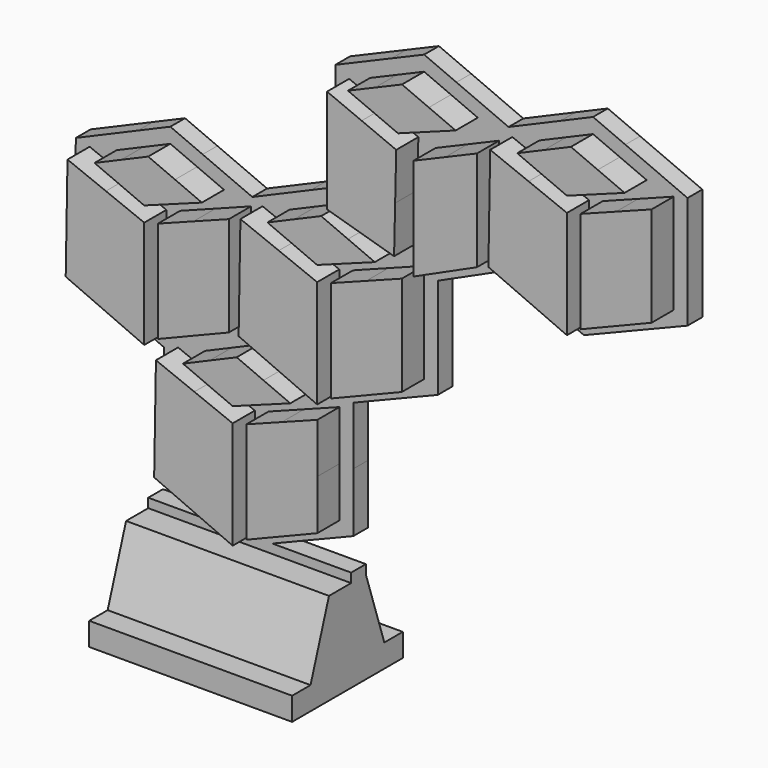
from build123d import *

# Parameters (mm, degrees)
F1_DEPTH = 2
F2_DEPTH = 5
F4_W     = 2
F4_H     = 1
F5_DEPTH = 22


with BuildPart() as f1:
    # F0 (on Front) → F1 (new body)
    with BuildSketch(Plane.XZ):
        Polygon((-22.8193829709, 10.7987906608), (-26.3214184969, 9.2943193939), (-33.0635225035, 6.3979188469), (-33.1667772891, 0.4421184837), (-33.2815796016, -6.1797498292), (-28.111171211, -8.4566636175), (-23.4882349946, -10.4924856545), (-23.576764671, -15.5989339328), (-23.6915669833, -22.2208046351), (-18.5211586583, -24.4977190145), (-14.2161642228, -26.3935276804), (-7.7627450397, -23.7728551555), (-2.9792199079, -21.830310819), (-2.979219302, -15.4102409141), (-2.9792175135, -9.0926908267), (1.3976566547, -7.3151656746), (6.1808944535, -5.3726091448), (6.1808944535, 1.0474357953), (6.1808944535, 5.5275451011), (10.008536122, 7.2674072367), (13.9272954869, 9.0486868379), (17.7231572961, 7.3773146502), (22.0282949256, 5.4817010426), (28.4814909788, 8.1022016787), (33.2645212787, 10.044483934), (33.2645212787, 16.4645665519), (33.2645212787, 22.2306876446), (26.5167738651, 25.1284134), (23.014342638, 26.63248509), (19.512434205, 25.1283758979), (13.8577213205, 22.699612899), (8.2024685224, 25.1283947272), (4.7022580218, 26.6316427627), (1.1820396136, 25.1298135252), (-4.9248938926, 22.5244151584), (-4.9248938926, 16.054836693), (-4.9248938926, 10.8478453638), (-7.5715055242, 9.7109633563), (-13.9292377049, 6.9799285921), (-19.3170835016, 9.2943382492), align=None)
        Polygon((-22.0769900447, -15.6249352854), (-21.9794714209, -9.9999987746), (-17.8191017683, -11.660116002), (-13.6587326263, -13.320230166), (-13.6587326263, -19.160115083), (-13.6587326263, -25), (-17.9166203921, -23.1249358981), (-22.1745086685, -21.2498717962), align=None, mode=Mode.SUBTRACT)
        Polygon((-8.3271193717, -11.4650751804), (-4.4792177703, -9.9999987746), (-4.479219302, -15.4102406319), (-4.4792198126, -20.8204819785), (-8.3271203929, -22.3830780292), (-12.1750209731, -23.94567408), (-12.1750209731, -18.4379130884), (-12.1750209731, -12.9301520968), align=None, mode=Mode.SUBTRACT)
        Polygon((-31.6670026549, 0.4161175841), (-31.5694840311, 6.0410525631), (-27.4091143785, 4.3809389097), (-23.2487452365, 2.7208247457), (-23.2487452365, -3.1190596607), (-23.2487452365, -8.9589445777), (-27.5066330024, -7.0838804758), (-31.7645212787, -5.2088168845), align=None, mode=Mode.SUBTRACT)
        Polygon((-17.9171309608, 4.5762309311), (-14.0697404387, 6.0410525631), (-14.0697404387, 0.6310695643), (-14.0697404387, -4.778916498), (-17.9171309608, -6.3412572644), (-21.7645209724, -7.9035985414), (-21.7645209724, -2.3960943658), (-21.7645209724, 3.1114098097), align=None, mode=Mode.SUBTRACT)
        Polygon((-16.1395859933, -8.1251879148), (-13.2293443403, -6.8753167313), (-10.3191016662, -8.1251879148), (-7.4088605238, -9.3750596089), (-10.5337963198, -10.5274126792), (-13.6587326263, -11.67976626), (-16.3542801363, -10.5274126792), (-19.0498276463, -9.3750596089), align=None, mode=Mode.SUBTRACT)
        Polygon((-12.9166225365, 0.8324878996), (-12.8188486283, 6.4576776525), (-8.6587347707, 4.7975634885), (-4.4986204025, 3.1374498351), (-4.4986204025, -2.7026898557), (-4.4986204025, -8.542830057), (-8.7565081683, -6.6677659551), (-13.0143964447, -4.7927018532), align=None, mode=Mode.SUBTRACT)
        Polygon((0.8332491576, 4.9928560205), (4.6808944535, 6.4576776525), (4.6808944535, 1.0474357953), (4.6808944535, -4.3628055514), (0.8332491576, -5.9254016021), (-3.0143961383, -7.4879976529), (-3.0143961383, -1.9799813769), (-3.0143961383, 3.528034899), align=None, mode=Mode.SUBTRACT)
        Polygon((-25.7293433192, 7.9161151333), (-22.8193569506, 9.1662426223), (-19.909114787, 7.9161151333), (-16.998873134, 6.6659881549), (-20.12380893, 5.513634574), (-23.2487452365, 4.3612809932), (-25.9440374622, 5.513634574), (-28.6393296878, 6.6659881549), align=None, mode=Mode.SUBTRACT)
        Polygon((-6.9794742801, 8.3327402227), (-4.0692321165, 9.5828677117), (-1.1592488113, 8.3327402227), (1.7507375573, 7.0826132442), (-1.3741972175, 5.9302596634), (-4.4991325029, 4.7779060826), (-7.194424218, 5.9302596634), (-9.8897164436, 7.0826132442), align=None, mode=Mode.SUBTRACT)
        Polygon((-3.4248938926, 16.054836693), (-3.4248938926, 21.679771672), (0.3252343112, 20.1174319268), (4.0753614939, 18.555091671), (3.9581859747, 13.4376614801), (3.8410109661, 8.3202312893), (0.2080582815, 9.3750662463), (-3.4248938926, 10.4299012033), align=None, mode=Mode.SUBTRACT)
        Polygon((9.3878243372, 19.5900134271), (12.8254844899, 21.0548350591), (12.8254844899, 15.6251915909), (12.8254844899, 10.1955486332), (9.3878243372, 8.6329536036), (5.9501646952, 7.070358574), (5.9501646952, 12.5977754399), (5.9501646952, 18.1251923057), align=None, mode=Mode.SUBTRACT)
        Polygon((1.7706543322, 23.7501277953), (4.7002970856, 25), (7.6105392492, 23.7501277953), (10.5207814128, 22.5002555907), (7.3958461273, 21.3476472361), (4.2709108419, 20.1950383709), (1.5559612103, 21.3476472361), (-1.1589884212, 22.5002555907), align=None, mode=Mode.SUBTRACT)
        Polygon((14.1672580414, 16.2498729194), (14.2647776863, 21.8748089197), (18.4251463178, 20.2149474872), (22.5855144386, 18.5550886076), (22.5855144386, 12.7152042011), (22.5855144386, 6.8753192841), (18.3276266728, 8.7501281017), (14.069738907, 10.6249369192), align=None, mode=Mode.SUBTRACT)
        Polygon((27.9171307566, 20.4099867771), (31.7645212787, 21.8748089197), (31.7645212787, 16.4645665519), (31.7645212787, 11.0543246947), (27.9171307566, 9.4919849494), (24.0697407451, 7.9296446936), (24.0697407451, 13.4374051746), (24.0697407451, 18.9451651451), align=None, mode=Mode.SUBTRACT)
        Polygon((20.104407319, 23.7501277953), (23.0143941982, 25), (25.9248880721, 23.7501277953), (28.8353850094, 22.5002555907), (25.710449724, 21.3476472361), (22.5855144386, 20.1950383709), (19.8899674392, 21.3476472361), (17.1944204398, 22.5002555907), align=None, mode=Mode.SUBTRACT)
        Polygon((18.4251463178, 20.2149474872), (14.2647776863, 21.8748089197), (14.1672580414, 16.2498729194), (14.069738907, 10.6249369192), (18.3276266728, 8.7501281017), (22.5855144386, 6.8753192841), (22.5855144386, 12.7152042011), (22.5855144386, 18.5550886076), align=None)
        Polygon((31.7645212787, 16.4645665519), (31.7645212787, 21.8748089197), (27.9171307566, 20.4099867771), (24.0697407451, 18.9451651451), (24.0697407451, 13.4374051746), (24.0697407451, 7.9296446936), (27.9171307566, 9.4919849494), (31.7645212787, 11.0543246947), align=None)
        Polygon((-10.3191016662, -8.1251879148), (-13.2293443403, -6.8753167313), (-16.1395859933, -8.1251879148), (-19.0498276463, -9.3750596089), (-16.3542801363, -10.5274126792), (-13.6587326263, -11.67976626), (-10.5337963198, -10.5274126792), (-7.4088605238, -9.3750596089), align=None)
        Polygon((-17.8191017683, -11.660116002), (-21.9794714209, -9.9999987746), (-22.0769900447, -15.6249352854), (-22.1745086685, -21.2498717962), (-17.9166203921, -23.1249358981), (-13.6587326263, -25), (-13.6587326263, -19.160115083), (-13.6587326263, -13.320230166), align=None)
        Polygon((-4.479219302, -15.4102406319), (-4.4792177703, -9.9999987746), (-8.3271193717, -11.4650751804), (-12.1750209731, -12.9301520968), (-12.1750209731, -18.4379130884), (-12.1750209731, -23.94567408), (-8.3271203929, -22.3830780292), (-4.4792198126, -20.8204819785), align=None)
        Polygon((7.6105392492, 23.7501277953), (4.7002970856, 25), (1.7706543322, 23.7501277953), (-1.1589884212, 22.5002555907), (1.5559612103, 21.3476472361), (4.2709108419, 20.1950383709), (7.3958461273, 21.3476472361), (10.5207814128, 22.5002555907), align=None)
        Polygon((0.3252343112, 20.1174319268), (-3.4248938926, 21.679771672), (-3.4248938926, 16.054836693), (-3.4248938926, 10.4299012033), (0.2080582815, 9.3750662463), (3.8410109661, 8.3202312893), (3.9581859747, 13.4376614801), (4.0753614939, 18.555091671), align=None)
        Polygon((12.8254844899, 15.6251915909), (12.8254844899, 21.0548350591), (9.3878243372, 19.5900134271), (5.9501646952, 18.1251923057), (5.9501646952, 12.5977754399), (5.9501646952, 7.070358574), (9.3878243372, 8.6329536036), (12.8254844899, 10.1955486332), align=None)
        Polygon((-19.909114787, 7.9161151333), (-22.8193569506, 9.1662426223), (-25.7293433192, 7.9161151333), (-28.6393296878, 6.6659881549), (-25.9440374622, 5.513634574), (-23.2487452365, 4.3612809932), (-20.12380893, 5.513634574), (-16.998873134, 6.6659881549), align=None)
        Polygon((-27.4091143785, 4.3809389097), (-31.5694840311, 6.0410525631), (-31.6670026549, 0.4161175841), (-31.7645212787, -5.2088168845), (-27.5066330024, -7.0838804758), (-23.2487452365, -8.9589445777), (-23.2487452365, -3.1190596607), (-23.2487452365, 2.7208247457), align=None)
        Polygon((-14.0697404387, 0.6310695643), (-14.0697404387, 6.0410525631), (-17.9171309608, 4.5762309311), (-21.7645209724, 3.1114098097), (-21.7645209724, -2.3960943658), (-21.7645209724, -7.9035985414), (-17.9171309608, -6.3412572644), (-14.0697404387, -4.778916498), align=None)
        Polygon((-1.1592488113, 8.3327402227), (-4.0692321165, 9.5828677117), (-6.9794742801, 8.3327402227), (-9.8897164436, 7.0826132442), (-7.194424218, 5.9302596634), (-4.4991325029, 4.7779060826), (-1.3741972175, 5.9302596634), (1.7507375573, 7.0826132442), align=None)
        Polygon((-8.6587347707, 4.7975634885), (-12.8188486283, 6.4576776525), (-12.9166225365, 0.8324878996), (-13.0143964447, -4.7927018532), (-8.7565081683, -6.6677659551), (-4.4986204025, -8.542830057), (-4.4986204025, -2.7026898557), (-4.4986204025, 3.1374498351), align=None)
        Polygon((4.6808944535, 1.0474357953), (4.6808944535, 6.4576776525), (0.8332491576, 4.9928560205), (-3.0143961383, 3.528034899), (-3.0143961383, -1.9799813769), (-3.0143961383, -7.4879976529), (0.8332491576, -5.9254016021), (4.6808944535, -4.3628055514), align=None)
        Polygon((25.9248880721, 23.7501277953), (23.0143941982, 25), (20.104407319, 23.7501277953), (17.1944204398, 22.5002555907), (19.8899674392, 21.3476472361), (22.5855144386, 20.1950383709), (25.710449724, 21.3476472361), (28.8353850094, 22.5002555907), align=None)
    extrude(amount=F1_DEPTH)

    # F0 (on Front) → F2 (join)
    with BuildSketch(Plane.XZ):
        Polygon((-27.4091143785, 4.3809389097), (-31.5694840311, 6.0410525631), (-31.6670026549, 0.4161175841), (-31.7645212787, -5.2088168845), (-27.5066330024, -7.0838804758), (-23.2487452365, -8.9589445777), (-23.2487452365, -3.1190596607), (-23.2487452365, 2.7208247457), align=None)
        Polygon((-19.909114787, 7.9161151333), (-22.8193569506, 9.1662426223), (-25.7293433192, 7.9161151333), (-28.6393296878, 6.6659881549), (-25.9440374622, 5.513634574), (-23.2487452365, 4.3612809932), (-20.12380893, 5.513634574), (-16.998873134, 6.6659881549), align=None)
        Polygon((-14.0697404387, 0.6310695643), (-14.0697404387, 6.0410525631), (-17.9171309608, 4.5762309311), (-21.7645209724, 3.1114098097), (-21.7645209724, -2.3960943658), (-21.7645209724, -7.9035985414), (-17.9171309608, -6.3412572644), (-14.0697404387, -4.778916498), align=None)
        Polygon((-10.3191016662, -8.1251879148), (-13.2293443403, -6.8753167313), (-16.1395859933, -8.1251879148), (-19.0498276463, -9.3750596089), (-16.3542801363, -10.5274126792), (-13.6587326263, -11.67976626), (-10.5337963198, -10.5274126792), (-7.4088605238, -9.3750596089), align=None)
        Polygon((-17.8191017683, -11.660116002), (-21.9794714209, -9.9999987746), (-22.0769900447, -15.6249352854), (-22.1745086685, -21.2498717962), (-17.9166203921, -23.1249358981), (-13.6587326263, -25), (-13.6587326263, -19.160115083), (-13.6587326263, -13.320230166), align=None)
        Polygon((-4.479219302, -15.4102406319), (-4.4792177703, -9.9999987746), (-8.3271193717, -11.4650751804), (-12.1750209731, -12.9301520968), (-12.1750209731, -18.4379130884), (-12.1750209731, -23.94567408), (-8.3271203929, -22.3830780292), (-4.4792198126, -20.8204819785), align=None)
        Polygon((4.6808944535, 1.0474357953), (4.6808944535, 6.4576776525), (0.8332491576, 4.9928560205), (-3.0143961383, 3.528034899), (-3.0143961383, -1.9799813769), (-3.0143961383, -7.4879976529), (0.8332491576, -5.9254016021), (4.6808944535, -4.3628055514), align=None)
        Polygon((-8.6587347707, 4.7975634885), (-12.8188486283, 6.4576776525), (-12.9166225365, 0.8324878996), (-13.0143964447, -4.7927018532), (-8.7565081683, -6.6677659551), (-4.4986204025, -8.542830057), (-4.4986204025, -2.7026898557), (-4.4986204025, 3.1374498351), align=None)
        Polygon((-1.1592488113, 8.3327402227), (-4.0692321165, 9.5828677117), (-6.9794742801, 8.3327402227), (-9.8897164436, 7.0826132442), (-7.194424218, 5.9302596634), (-4.4991325029, 4.7779060826), (-1.3741972175, 5.9302596634), (1.7507375573, 7.0826132442), align=None)
        Polygon((0.3252343112, 20.1174319268), (-3.4248938926, 21.679771672), (-3.4248938926, 16.054836693), (-3.4248938926, 10.4299012033), (0.2080582815, 9.3750662463), (3.8410109661, 8.3202312893), (3.9581859747, 13.4376614801), (4.0753614939, 18.555091671), align=None)
        Polygon((7.6105392492, 23.7501277953), (4.7002970856, 25), (1.7706543322, 23.7501277953), (-1.1589884212, 22.5002555907), (1.5559612103, 21.3476472361), (4.2709108419, 20.1950383709), (7.3958461273, 21.3476472361), (10.5207814128, 22.5002555907), align=None)
        Polygon((12.8254844899, 15.6251915909), (12.8254844899, 21.0548350591), (9.3878243372, 19.5900134271), (5.9501646952, 18.1251923057), (5.9501646952, 12.5977754399), (5.9501646952, 7.070358574), (9.3878243372, 8.6329536036), (12.8254844899, 10.1955486332), align=None)
        Polygon((25.9248880721, 23.7501277953), (23.0143941982, 25), (20.104407319, 23.7501277953), (17.1944204398, 22.5002555907), (19.8899674392, 21.3476472361), (22.5855144386, 20.1950383709), (25.710449724, 21.3476472361), (28.8353850094, 22.5002555907), align=None)
        Polygon((18.4251463178, 20.2149474872), (14.2647776863, 21.8748089197), (14.1672580414, 16.2498729194), (14.069738907, 10.6249369192), (18.3276266728, 8.7501281017), (22.5855144386, 6.8753192841), (22.5855144386, 12.7152042011), (22.5855144386, 18.5550886076), align=None)
        Polygon((31.7645212787, 16.4645665519), (31.7645212787, 21.8748089197), (27.9171307566, 20.4099867771), (24.0697407451, 18.9451651451), (24.0697407451, 13.4374051746), (24.0697407451, 7.9296446936), (27.9171307566, 9.4919849494), (31.7645212787, 11.0543246947), align=None)
    extrude(amount=F2_DEPTH)

    # F4 (on line) → F5 (join)
    with BuildSketch(Plane.YZ.offset(-3.2161642228)):
        Polygon((2.5, -33.8935276804), (0, -26.3935276804), (-2, -26.3935276804), (-2.5, -26.3935276804), (-2.5, -36.3935276804), (5, -36.3935276804), (5, -33.8935276804), align=None)
        Polygon((-2.5, -36.3935276804), (-2.5, -26.3935276804), (-5, -26.3935276804), (-7.5, -33.8935276804), (-10, -33.8935276804), (-10, -36.3935276804), align=None)
        with Locations((-1, -25.8935276804)):
            Rectangle(F4_W, F4_H)
    extrude(amount=-F5_DEPTH)


solid = f1.part
